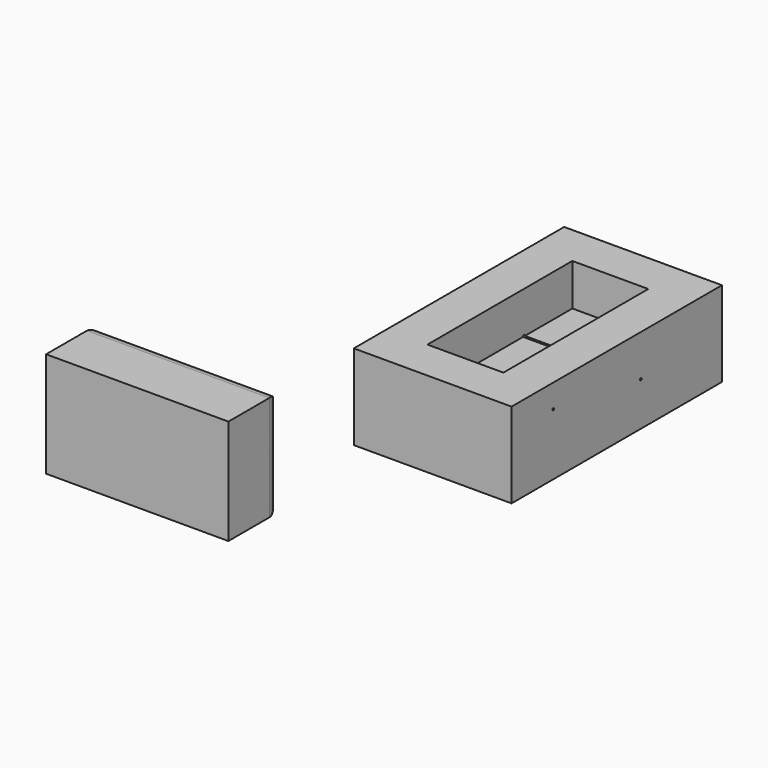
from build123d import *

# Parameters (mm, degrees)
F0_W     = 381
F0_H     = 635
F1_DEPTH = 205.74
F2_W     = 183.3879947662
F2_H     = 437.3879947662
F3_DEPTH = 101.092
F4_W     = 440.2977898717
F4_H     = 154.080092907
F5_DEPTH = 254
F6_R     = 30.6605122421
F7_SIZE  = 12.7
F9_D     = 5.55752


with BuildPart() as f1:
    # F0 (on Top) → F1 (new body)
    with BuildSketch(Plane.XY):
        Rectangle(F0_W, F0_H)
    extrude(amount=F1_DEPTH)

    # F2 (on face) → F3 (cut)
    with BuildSketch(Plane.XY.offset(205.74)):
        Rectangle(F2_W, F2_H)
    extrude(amount=-F3_DEPTH, mode=Mode.SUBTRACT)

    # F7
    f7_edges = [f1.edges().sort_by_distance(p)[0] for p in [
        (0, -218.693997, 104.648),
        (91.693997, 0, 104.648),
    ]]
    chamfer(f7_edges, length=F7_SIZE)

    # F9 (through all)
    with Locations(Plane.YZ.offset(190.5)):
        with Locations((-191.4745569229, 148.9978134632), (72.7311000228, 105.1920801401)):
            Hole(F9_D / 2)


with BuildPart() as f5:
    # F4 (on face) → F5 (new body)
    with BuildSketch(Plane.XY.offset(205.74)):
        with Locations((-103.6452613771, -1002.7722418308)):
            Rectangle(F4_W, F4_H)
    extrude(amount=F5_DEPTH)

    # F6
    f6_edges = [f5.edges().sort_by_distance(p)[0] for p in [
        (116.503634, -925.732195, 332.74),
        (-323.794156, -925.732195, 332.74),
        (-103.645261, -925.732195, 205.74),
        (-103.645261, -925.732195, 459.74),
    ]]
    fillet(f6_edges, radius=F6_R)


solid = Compound([f1.part, f5.part])
